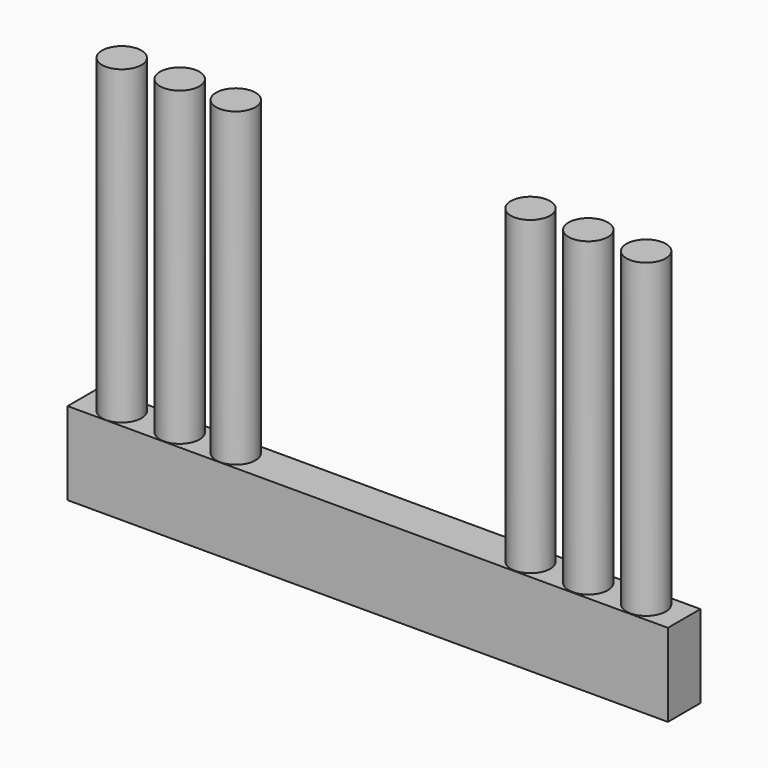
from build123d import *

# Parameters (mm, degrees)
F0_W     = 48.783202
F0_H     = 6.73111
F1_DEPTH = 3.302
F2_R     = 1.6
F3_DEPTH = 32


with BuildPart() as f1:
    # F0 (on Front) → F1 (new body)
    with BuildSketch(Plane.XZ):
        with Locations((24.391601, 3.365555)):
            Rectangle(F0_W, F0_H)
    extrude(amount=-F1_DEPTH)

    # F2 (on Top) → F3 (join)
    with BuildSketch(Plane.XY):
        with Locations((3.1, 1.626936)):
            Circle(F2_R)
        with Locations((7.799981, 1.640332)):
            Circle(F2_R)
        with Locations((12.369818, 1.623737)):
            Circle(F2_R)
        with Locations((36.283233, 1.66498)):
            Circle(F2_R)
        with Locations((40.983233, 1.66498)):
            Circle(F2_R)
        with Locations((45.683233, 1.66498)):
            Circle(F2_R)
    extrude(amount=F3_DEPTH)


solid = f1.part
